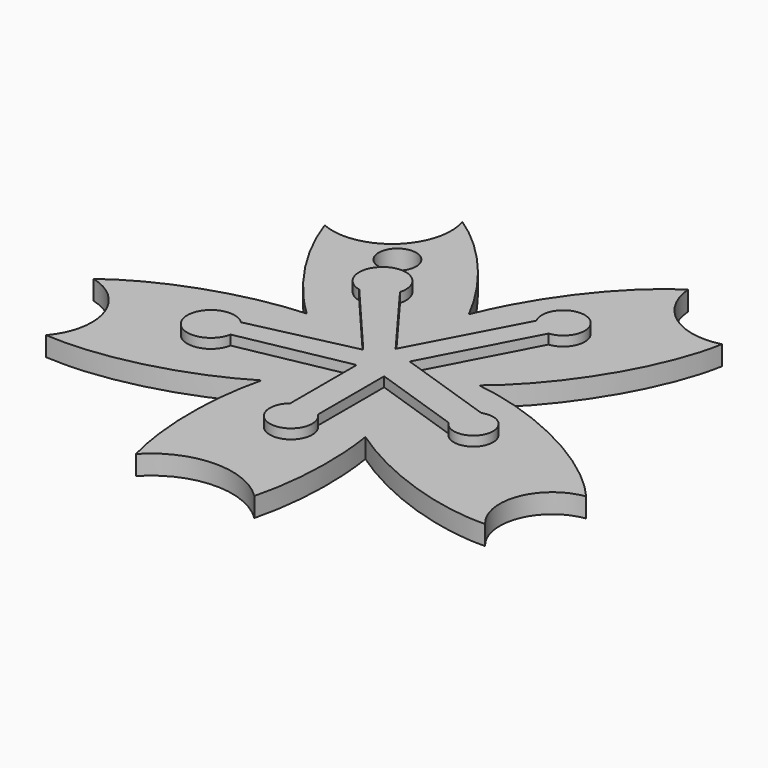
from build123d import *

# Parameters (mm, degrees)
F1_DEPTH = 2.54
F2_R     = 2.4478188867
F3_DEPTH = 25.4
F5_DEPTH = 1.27


with BuildPart() as f1:
    # F0 (on Top) → F1 (new body)
    with BuildSketch(Plane.XY):
        with BuildLine():
            add(Edge.make_bspline(
                [(-8.1293506725, 13.8677618036), (-13.0062829494, 14.4740161408), (-15.8992987585, 13.1955885586)],
                knots=[5.3621765201, 5.3621765201, 5.3621765201, 5.923451431, 5.923451431, 5.923451431], degree=2, weights=[1, 0.9608790786, 1]))
            add(Edge.make_bspline(
                [(-8.1293506725, 13.8677618036), (3.2191549473, 23.0429297149), (5.5405121801, 36.4422092533)],
                knots=[0.9210087871, 0.9210087871, 0.9210087871, 2.3368799745, 2.3368799745, 2.3368799745], degree=2, weights=[1, 0.7597059088, 1]))
            ThreePointArc((5.5405121801, 36.4422092533), (-1.2696831758, 37.7032314), (-4.698329526, 43.7209819636))
            add(Edge.make_bspline(
                [(-4.698329526, 43.7209819636), (-13.840110732, 37.842561491), (-18.7504788391, 25.4664124261)],
                knots=[3.9042333143, 3.9042333143, 3.9042333143, 5.1309929011, 5.1309929011, 5.1309929011], degree=2, weights=[1, 0.8177071664, 1]))
            add(Edge.make_bspline(
                [(-15.8992987585, 13.1955885586), (-14.9909904148, 18.0024303196), (-18.7504788391, 25.4664124261)],
                knots=[0.3890102653, 0.3890102653, 0.3890102653, 1.2079252474, 1.2079252474, 1.2079252474], degree=2, weights=[1, 0.917336937, 1]))
        make_face()
        with BuildLine():
            add(Edge.make_bspline(
                [(-18.3283618618, 11.1091458655), (-18.4977635058, 11.1131186151), (-18.6671083791, 11.1023364909)],
                knots=[3.1313329127, 3.1313329127, 3.1313329127, 3.1694409122, 3.1694409122, 3.1694409122], degree=2, weights=[1, 0.999818478, 1]))
            add(Edge.make_bspline(
                [(-15.8992987585, 13.1955885586), (-17.6072200733, 12.4408558295), (-18.3283618618, 11.1091458655)],
                knots=[5.923451431, 5.923451431, 5.923451431, 6.2605585753, 6.2605585753, 6.2605585753], degree=2, weights=[1, 0.9858284459, 1]))
            add(Edge.make_bspline(
                [(-15.8992987585, 13.1955885586), (-14.9909904148, 18.0024303196), (-18.7504788391, 25.4664124261)],
                knots=[0.3890102653, 0.3890102653, 0.3890102653, 1.2079252474, 1.2079252474, 1.2079252474], degree=2, weights=[1, 0.917336937, 1]))
            add(Edge.make_bspline(
                [(-18.7504788391, 25.4664124261), (-23.1152645716, 14.4653555432), (-18.6671083791, 11.1023364909)],
                knots=[5.1309929011, 5.1309929011, 5.1309929011, 6.2492635537, 6.2492635537, 6.2492635537], degree=2, weights=[1, 0.847714097, 1]))
        make_face()
        with BuildLine():
            add(Edge.make_bspline(
                [(-18.6671083791, 11.1023364909), (-18.9426872846, 11.084790486), (-19.217261025, 11.0282486857)],
                knots=[3.1694409122, 3.1694409122, 3.1694409122, 3.2314425944, 3.2314425944, 3.2314425944], degree=2, weights=[1, 0.9995195124, 1]))
            add(Edge.make_bspline(
                [(-18.7504788391, 25.4664124261), (-23.1152645716, 14.4653555432), (-18.6671083791, 11.1023364909)],
                knots=[5.1309929011, 5.1309929011, 5.1309929011, 6.2492635537, 6.2492635537, 6.2492635537], degree=2, weights=[1, 0.847714097, 1]))
            add(Edge.make_bspline(
                [(-18.7504788391, 25.4664124261), (-23.8658033607, 35.622233216), (-32.0064408454, 41.0016310267)],
                knots=[1.2079252474, 1.2079252474, 1.2079252474, 2.2747363454, 2.2747363454, 2.2747363454], degree=2, weights=[1, 0.861080452, 1]))
            ThreePointArc((-32.0064408454, 41.0016310267), (-34.2766878119, 32.9620074398), (-42.5278444814, 31.6551094622))
            add(Edge.make_bspline(
                [(-42.5278444814, 31.6551094622), (-39.4326529231, 22.5643761786), (-31.7688000788, 15.2701366935)],
                knots=[4.0918939552, 4.0918939552, 4.0918939552, 5.1043441076, 5.1043441076, 5.1043441076], degree=2, weights=[1, 0.8745811169, 1]))
            add(Edge.make_bspline(
                [(-19.217261025, 11.0282486857), (-21.0537599835, 15.8717065704), (-31.7688000788, 15.2701366935)],
                knots=[0.0355549151, 0.0355549151, 0.0355549151, 1.0884005179, 1.0884005179, 1.0884005179], degree=2, weights=[1, 0.8646099394, 1]))
        make_face()
        with BuildLine():
            add(Edge.make_bspline(
                [(-49.5557408605, -5.0613393168), (-37.4112986885, -6.0471883825), (-26.1381579613, 0.8721302608)],
                knots=[3.9984789777, 3.9984789777, 3.9984789777, 5.2750169926, 5.2750169926, 5.2750169926], degree=2, weights=[1, 0.8031282966, 1]))
            add(Edge.make_bspline(
                [(-22.0543003481, 9.3342240027), (-24.6998426208, 6.6251102399), (-26.1381579613, 0.8721302608)],
                knots=[3.5627929422, 3.5627929422, 3.5627929422, 4.1932217971, 4.1932217971, 4.1932217971], degree=2, weights=[1, 0.9507299239, 1]))
            add(Edge.make_bspline(
                [(-31.7688000788, 15.2701366935), (-26.5047883189, 10.2599984236), (-22.0543003481, 9.3342240027)],
                knots=[5.1043441076, 5.1043441076, 5.1043441076, 5.8320454274, 5.8320454274, 5.8320454274], degree=2, weights=[1, 0.9345334002, 1]))
            add(Edge.make_bspline(
                [(-31.7688000788, 15.2701366935), (-44.5755870345, 14.5511307743), (-53.518205674, 7.6725440865)],
                knots=[1.0884005179, 1.0884005179, 1.0884005179, 2.3025399143, 2.3025399143, 2.3025399143], degree=2, weights=[1, 0.821323171, 1]))
            ThreePointArc((-53.518205674, 7.6725440865), (-48.0219304325, 2.3993954651), (-49.5557408605, -5.0613393168))
        make_face()
        with BuildLine():
            ThreePointArc((-25.9959172097, -19.8404580769), (-18.4435146916, -16.4764784527), (-10.7636362879, -19.5382770108))
            add(Edge.make_bspline(
                [(-10.7636362879, -19.5382770108), (-8.6329149556, -11.286799204), (-10.0625585352, -2.2797077491)],
                knots=[1.0375960775, 1.0375960775, 1.0375960775, 1.9188268736, 1.9188268736, 1.9188268736], degree=2, weights=[1, 0.9044893696, 1]))
            add(Edge.make_bspline(
                [(-18.8036627166, 9.4223104106), (-19.1581055578, 4.0259429354), (-10.0625585352, -2.2797077491)],
                knots=[0.1725226653, 0.1725226653, 0.1725226653, 1.2141781775, 1.2141781775, 1.2141781775], degree=2, weights=[1, 0.8674075869, 1]))
            add(Edge.make_bspline(
                [(-18.968622651, 9.3695263971), (-18.8851978683, 9.3944363277), (-18.8036627166, 9.4223104106)],
                knots=[6.1291457004, 6.1291457004, 6.1291457004, 6.1478253328, 6.1478253328, 6.1478253328], degree=2, weights=[1, 0.9999563842, 1]))
            add(Edge.make_bspline(
                [(-26.1381579613, 0.8721302608), (-19.2047000054, 5.1278036404), (-18.968622651, 9.3695263971)],
                knots=[5.2750169926, 5.2750169926, 5.2750169926, 6.13113397, 6.13113397, 6.13113397], degree=2, weights=[1, 0.9097733954, 1]))
            add(Edge.make_bspline(
                [(-26.1381579613, 0.8721302608), (-28.7514373337, -9.580475983), (-25.9959172097, -19.8404580769)],
                knots=[4.1932217971, 4.1932217971, 4.1932217971, 5.2629472206, 5.2629472206, 5.2629472206], degree=2, weights=[1, 0.8603386164, 1]))
        make_face()
        with BuildLine():
            add(Edge.make_bspline(
                [(-10.0625585352, -2.2797077491), (-11.591893318, 7.3554617789), (-15.8909007735, 10.2708762745)],
                knots=[1.9188268736, 1.9188268736, 1.9188268736, 2.853170758, 2.853170758, 2.853170758], degree=2, weights=[1, 0.8928455097, 1]))
            add(Edge.make_bspline(
                [(-10.0625585352, -2.2797077491), (1.0990392267, -10.0176850683), (11.4824191077, -9.6655475308)],
                knots=[1.2141781775, 1.2141781775, 1.2141781775, 2.440947022, 2.440947022, 2.440947022], degree=2, weights=[1, 0.8177045019, 1]))
            ThreePointArc((11.4824191077, -9.6655475308), (10.3145579677, -2.8178027009), (15.7274971882, 1.5359999924))
            add(Edge.make_bspline(
                [(15.7274971882, 1.5359999924), (6.8261776479, 12.0086312281), (-8.1293506725, 13.8677618036)],
                knots=[3.9144495075, 3.9144495075, 3.9144495075, 5.3621765201, 5.3621765201, 5.3621765201], degree=2, weights=[1, 0.7492525877, 1]))
            add(Edge.make_bspline(
                [(-15.8909007735, 10.2708762745), (-12.5066175517, 10.3287796719), (-8.1293506725, 13.8677618036)],
                knots=[0.2832443256, 0.2832443256, 0.2832443256, 0.9210087871, 0.9210087871, 0.9210087871], degree=2, weights=[1, 0.9495864378, 1]))
        make_face()
        with BuildLine():
            add(Edge.make_bspline(
                [(-18.8036627166, 9.4223104106), (-19.1581055578, 4.0259429354), (-10.0625585352, -2.2797077491)],
                knots=[0.1725226653, 0.1725226653, 0.1725226653, 1.2141781775, 1.2141781775, 1.2141781775], degree=2, weights=[1, 0.8674075869, 1]))
            add(Edge.make_bspline(
                [(-10.0625585352, -2.2797077491), (-11.591893318, 7.3554617789), (-15.8909007735, 10.2708762745)],
                knots=[1.9188268736, 1.9188268736, 1.9188268736, 2.853170758, 2.853170758, 2.853170758], degree=2, weights=[1, 0.8928455097, 1]))
            add(Edge.make_bspline(
                [(-17.2241931915, 10.4165103763), (-16.6012589778, 10.2587224001), (-15.8909007735, 10.2708762745)],
                knots=[0.1448694059, 0.1448694059, 0.1448694059, 0.2832443256, 0.2832443256, 0.2832443256], degree=2, weights=[1, 0.9976075023, 1]))
            add(Edge.make_bspline(
                [(-18.8036627166, 9.4223104106), (-17.88406247, 9.7366903191), (-17.2241931915, 10.4165103763)],
                knots=[6.1478253328, 6.1478253328, 6.1478253328, 6.3577368887, 6.3577368887, 6.3577368887], degree=2, weights=[1, 0.9944971966, 1]))
        make_face()
        with BuildLine():
            add(Edge.make_bspline(
                [(-15.8909007735, 10.2708762745), (-16.3835971803, 10.6050032239), (-16.8898563503, 10.8071326543)],
                knots=[2.853170758, 2.853170758, 2.853170758, 2.9686608036, 2.9686608036, 2.9686608036], degree=2, weights=[1, 0.9983332194, 1]))
            add(Edge.make_bspline(
                [(-15.8909007735, 10.2708762745), (-12.5066175517, 10.3287796719), (-8.1293506725, 13.8677618036)],
                knots=[0.2832443256, 0.2832443256, 0.2832443256, 0.9210087871, 0.9210087871, 0.9210087871], degree=2, weights=[1, 0.9495864378, 1]))
            add(Edge.make_bspline(
                [(-8.1293506725, 13.8677618036), (-13.0062829494, 14.4740161408), (-15.8992987585, 13.1955885586)],
                knots=[5.3621765201, 5.3621765201, 5.3621765201, 5.923451431, 5.923451431, 5.923451431], degree=2, weights=[1, 0.9608790786, 1]))
            add(Edge.make_bspline(
                [(-16.8898563503, 10.8071326543), (-16.1706479753, 11.759586395), (-15.8992987585, 13.1955885586)],
                knots=[0.1311493399, 0.1311493399, 0.1311493399, 0.3890102653, 0.3890102653, 0.3890102653], degree=2, weights=[1, 0.9916999751, 1]))
        make_face()
        with BuildLine():
            add(Edge.make_bspline(
                [(-22.0543003481, 9.3342240027), (-24.6998426208, 6.6251102399), (-26.1381579613, 0.8721302608)],
                knots=[3.5627929422, 3.5627929422, 3.5627929422, 4.1932217971, 4.1932217971, 4.1932217971], degree=2, weights=[1, 0.9507299239, 1]))
            add(Edge.make_bspline(
                [(-26.1381579613, 0.8721302608), (-19.2047000054, 5.1278036404), (-18.968622651, 9.3695263971)],
                knots=[5.2750169926, 5.2750169926, 5.2750169926, 6.13113397, 6.13113397, 6.13113397], degree=2, weights=[1, 0.9097733954, 1]))
            add(Edge.make_bspline(
                [(-22.0543003481, 9.3342240027), (-20.3053052052, 8.970404355), (-18.968622651, 9.3695263971)],
                knots=[5.8320454274, 5.8320454274, 5.8320454274, 6.1291457004, 6.1291457004, 6.1291457004], degree=2, weights=[1, 0.9889867035, 1]))
        make_face()
        with BuildLine():
            add(Edge.make_bspline(
                [(-31.7688000788, 15.2701366935), (-26.5047883189, 10.2599984236), (-22.0543003481, 9.3342240027)],
                knots=[5.1043441076, 5.1043441076, 5.1043441076, 5.8320454274, 5.8320454274, 5.8320454274], degree=2, weights=[1, 0.9345334002, 1]))
            add(Edge.make_bspline(
                [(-19.217261025, 11.0282486857), (-20.6977425429, 10.7233794352), (-22.0543003481, 9.3342240027)],
                knots=[3.2314425944, 3.2314425944, 3.2314425944, 3.5627929422, 3.5627929422, 3.5627929422], degree=2, weights=[1, 0.9863072316, 1]))
            add(Edge.make_bspline(
                [(-19.217261025, 11.0282486857), (-21.0537599835, 15.8717065704), (-31.7688000788, 15.2701366935)],
                knots=[0.0355549151, 0.0355549151, 0.0355549151, 1.0884005179, 1.0884005179, 1.0884005179], degree=2, weights=[1, 0.8646099394, 1]))
        make_face()
        with BuildLine():
            add(Edge.make_bspline(
                [(-22.0543003481, 9.3342240027), (-20.3053052052, 8.970404355), (-18.968622651, 9.3695263971)],
                knots=[5.8320454274, 5.8320454274, 5.8320454274, 6.1291457004, 6.1291457004, 6.1291457004], degree=2, weights=[1, 0.9889867035, 1]))
            add(Edge.make_bspline(
                [(-18.968622651, 9.3695263971), (-18.9199457345, 10.2441294891), (-19.217261025, 11.0282486857)],
                knots=[6.13113397, 6.13113397, 6.13113397, 6.3187402223, 6.3187402223, 6.3187402223], degree=2, weights=[1, 0.9956037118, 1]))
            add(Edge.make_bspline(
                [(-19.217261025, 11.0282486857), (-20.6977425429, 10.7233794352), (-22.0543003481, 9.3342240027)],
                knots=[3.2314425944, 3.2314425944, 3.2314425944, 3.5627929422, 3.5627929422, 3.5627929422], degree=2, weights=[1, 0.9863072316, 1]))
        make_face()
        with BuildLine():
            add(Edge.make_bspline(
                [(-16.8898563503, 10.8071326543), (-17.6037237269, 11.0921518989), (-18.3283618618, 11.1091458655)],
                knots=[2.9686608036, 2.9686608036, 2.9686608036, 3.1313329127, 3.1313329127, 3.1313329127], degree=2, weights=[1, 0.9966940463, 1]))
            add(Edge.make_bspline(
                [(-16.8898563503, 10.8071326543), (-16.1706479753, 11.759586395), (-15.8992987585, 13.1955885586)],
                knots=[0.1311493399, 0.1311493399, 0.1311493399, 0.3890102653, 0.3890102653, 0.3890102653], degree=2, weights=[1, 0.9916999751, 1]))
            add(Edge.make_bspline(
                [(-15.8992987585, 13.1955885586), (-17.6072200733, 12.4408558295), (-18.3283618618, 11.1091458655)],
                knots=[5.923451431, 5.923451431, 5.923451431, 6.2605585753, 6.2605585753, 6.2605585753], degree=2, weights=[1, 0.9858284459, 1]))
        make_face()
        with BuildLine():
            add(Edge.make_bspline(
                [(-17.2241931915, 10.4165103763), (-17.0468812663, 10.5991832284), (-16.8898563503, 10.8071326543)],
                knots=[0.0745515815, 0.0745515815, 0.0745515815, 0.1311493399, 0.1311493399, 0.1311493399], degree=2, weights=[1, 0.9995996134, 1]))
            add(Edge.make_bspline(
                [(-16.8898563503, 10.8071326543), (-17.6037237269, 11.0921518989), (-18.3283618618, 11.1091458655)],
                knots=[2.9686608036, 2.9686608036, 2.9686608036, 3.1313329127, 3.1313329127, 3.1313329127], degree=2, weights=[1, 0.9966940463, 1]))
            add(Edge.make_bspline(
                [(-18.3283618618, 11.1091458655), (-18.3763079047, 11.020605409), (-18.4195693582, 10.9298044945)],
                knots=[6.2605585753, 6.2605585753, 6.2605585753, 6.2831853072, 6.2831853072, 6.2831853072], degree=2, weights=[1, 0.9999360046, 1]))
            add(Edge.make_bspline(
                [(-18.4195693582, 10.9298044945), (-17.8764644053, 10.5817293553), (-17.2241931915, 10.4165103763)],
                knots=[0, 0, 0, 0.1448694059, 0.1448694059, 0.1448694059], degree=2, weights=[1, 0.9973777537, 1]))
        make_face()
        with BuildLine():
            add(Edge.make_bspline(
                [(-18.4195693582, 10.9298044945), (-18.750232644, 10.2357795294), (-18.8036627166, 9.4223104106)],
                knots=[0, 0, 0, 0.1725226653, 0.1725226653, 0.1725226653], degree=2, weights=[1, 0.9962817977, 1]))
            add(Edge.make_bspline(
                [(-18.8036627166, 9.4223104106), (-17.88406247, 9.7366903191), (-17.2241931915, 10.4165103763)],
                knots=[6.1478253328, 6.1478253328, 6.1478253328, 6.3577368887, 6.3577368887, 6.3577368887], degree=2, weights=[1, 0.9944971966, 1]))
            add(Edge.make_bspline(
                [(-18.4195693582, 10.9298044945), (-17.8764644053, 10.5817293553), (-17.2241931915, 10.4165103763)],
                knots=[0, 0, 0, 0.1448694059, 0.1448694059, 0.1448694059], degree=2, weights=[1, 0.9973777537, 1]))
        make_face()
        with BuildLine():
            add(Edge.make_bspline(
                [(-18.968622651, 9.3695263971), (-18.8851978683, 9.3944363277), (-18.8036627166, 9.4223104106)],
                knots=[6.1291457004, 6.1291457004, 6.1291457004, 6.1478253328, 6.1478253328, 6.1478253328], degree=2, weights=[1, 0.9999563842, 1]))
            add(Edge.make_bspline(
                [(-18.4195693582, 10.9298044945), (-18.750232644, 10.2357795294), (-18.8036627166, 9.4223104106)],
                knots=[0, 0, 0, 0.1725226653, 0.1725226653, 0.1725226653], degree=2, weights=[1, 0.9962817977, 1]))
            add(Edge.make_bspline(
                [(-18.6671083791, 11.1023364909), (-18.5465292502, 11.0111728964), (-18.4195693582, 10.9298044945)],
                knots=[6.2492635537, 6.2492635537, 6.2492635537, 6.2831853072, 6.2831853072, 6.2831853072], degree=2, weights=[1, 0.9998561678, 1]))
            add(Edge.make_bspline(
                [(-18.6671083791, 11.1023364909), (-18.9426872846, 11.084790486), (-19.217261025, 11.0282486857)],
                knots=[3.1694409122, 3.1694409122, 3.1694409122, 3.2314425944, 3.2314425944, 3.2314425944], degree=2, weights=[1, 0.9995195124, 1]))
            add(Edge.make_bspline(
                [(-18.968622651, 9.3695263971), (-18.9199457345, 10.2441294891), (-19.217261025, 11.0282486857)],
                knots=[6.13113397, 6.13113397, 6.13113397, 6.3187402223, 6.3187402223, 6.3187402223], degree=2, weights=[1, 0.9956037118, 1]))
        make_face()
        with BuildLine():
            add(Edge.make_bspline(
                [(-17.2241931915, 10.4165103763), (-16.6012589778, 10.2587224001), (-15.8909007735, 10.2708762745)],
                knots=[0.1448694059, 0.1448694059, 0.1448694059, 0.2832443256, 0.2832443256, 0.2832443256], degree=2, weights=[1, 0.9976075023, 1]))
            add(Edge.make_bspline(
                [(-15.8909007735, 10.2708762745), (-16.3835971803, 10.6050032239), (-16.8898563503, 10.8071326543)],
                knots=[2.853170758, 2.853170758, 2.853170758, 2.9686608036, 2.9686608036, 2.9686608036], degree=2, weights=[1, 0.9983332194, 1]))
            add(Edge.make_bspline(
                [(-17.2241931915, 10.4165103763), (-17.0468812663, 10.5991832284), (-16.8898563503, 10.8071326543)],
                knots=[0.0745515815, 0.0745515815, 0.0745515815, 0.1311493399, 0.1311493399, 0.1311493399], degree=2, weights=[1, 0.9995996134, 1]))
        make_face()
        with BuildLine():
            add(Edge.make_bspline(
                [(-18.6671083791, 11.1023364909), (-18.5465292502, 11.0111728964), (-18.4195693582, 10.9298044945)],
                knots=[6.2492635537, 6.2492635537, 6.2492635537, 6.2831853072, 6.2831853072, 6.2831853072], degree=2, weights=[1, 0.9998561678, 1]))
            add(Edge.make_bspline(
                [(-18.3283618618, 11.1091458655), (-18.3763079047, 11.020605409), (-18.4195693582, 10.9298044945)],
                knots=[6.2605585753, 6.2605585753, 6.2605585753, 6.2831853072, 6.2831853072, 6.2831853072], degree=2, weights=[1, 0.9999360046, 1]))
            add(Edge.make_bspline(
                [(-18.3283618618, 11.1091458655), (-18.4977635058, 11.1131186151), (-18.6671083791, 11.1023364909)],
                knots=[3.1313329127, 3.1313329127, 3.1313329127, 3.1694409122, 3.1694409122, 3.1694409122], degree=2, weights=[1, 0.999818478, 1]))
        make_face()
    extrude(amount=F1_DEPTH)

    # F2 (on face) → F3 (cut)
    with BuildSketch(Plane.XY.offset(2.54)):
        with Locations((-31.9958999753, 30.3639341146)):
            Circle(F2_R)
    extrude(amount=-F3_DEPTH, mode=Mode.SUBTRACT)

    # F4 (on face) → F5 (join)
    with BuildSketch(Plane.XY.offset(2.54)):
        with BuildLine():
            ThreePointArc((-8.228359744, 25.3271367401), (-7.2086853455, 30.5814773498), (-10.9625142068, 26.766166091))
            Line((-10.9625142068, 26.766166091), (-18.3015614748, 12.951489538))
            Line((-18.3015614748, 12.951489538), (-25.7845111191, 23.0246912688))
            ThreePointArc((-25.7845111191, 23.0246912688), (-30.2968440561, 26.4679983586), (-29.382083565, 20.8661481738))
            Line((-29.382083565, 20.8661481738), (-20.7479093224, 10.7282179445))
            Line((-20.7479093224, 10.7282179445), (-34.2747792602, 7.6725440865))
            ThreePointArc((-34.2747792602, 7.6725440865), (-39.3884028032, 4.5602256543), (-33.4113650024, 4.8929280601))
            Line((-33.4113650024, 4.8929280601), (-19.1649775952, 7.6725440865))
            Line((-19.1649775952, 7.6725440865), (-19.1649775952, -3.165632952))
            ThreePointArc((-19.1649775952, -3.165632952), (-17.4796190049, -8.0573985599), (-15.4235037044, -3.3095364925))
            Line((-15.4235037044, -3.3095364925), (-15.4235037044, 7.4831801467))
            Line((-15.4235037044, 7.4831801467), (-3.911273554, 3.5978022497))
            ThreePointArc((-3.911273554, 3.5978022497), (0.703099628, 4.0954129196), (-2.6161477435, 7.339276839))
            Line((-2.6161477435, 7.339276839), (-15.4235037044, 11.6563634947))
            Line((-15.4235037044, 11.6563634947), (-8.228359744, 25.3271367401))
        make_face()
    extrude(amount=F5_DEPTH)


solid = f1.part
